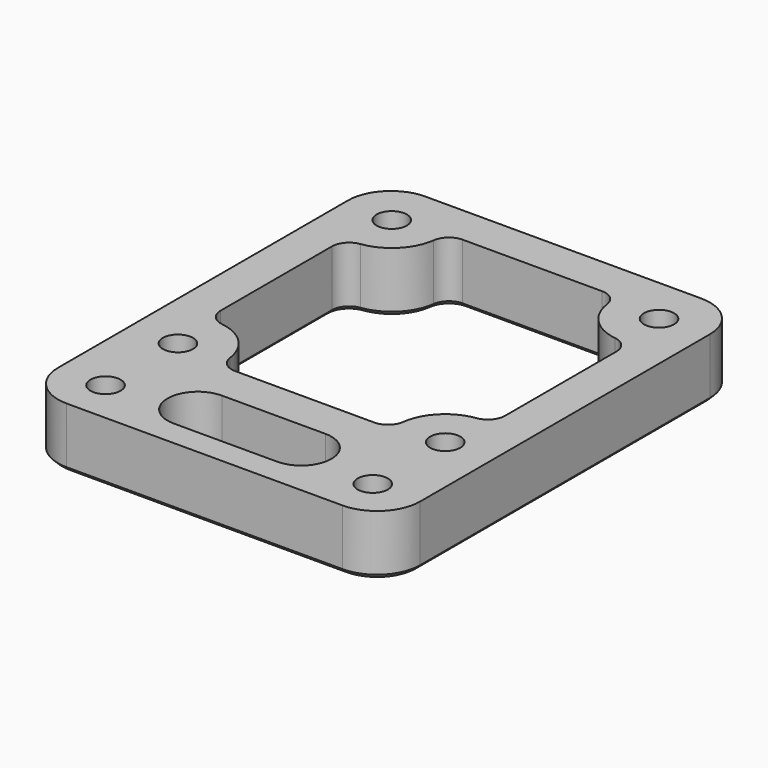
from build123d import *

# Parameters (mm, degrees)
SKETCH_W        = 42
SKETCH_H        = 52
SKETCH_R        = 1.75
PAD_DEPTH       = 7
SKETCH001_R     = 3.25
POCKET_DEPTH    = 3
POCKET001_DEPTH = 7.001
FILLET_R        = 5
FILLET001_R     = 2
CHAMFER_SIZE    = 0.5
CHAMFER001_SIZE = 0.5
CHAMFER002_SIZE = 0.5
CHAMFER003_SIZE = 0.5
SKETCH003_R     = 1.75
PAD001_DEPTH    = 0.3


with BuildPart() as part:
    # Sketch → Pad (new body)
    with BuildSketch(Plane.XY):
        with Locations((0, -5)):
            Rectangle(SKETCH_W, SKETCH_H)
        with Locations((-15.5, 15.5)):
            Circle(SKETCH_R, mode=Mode.SUBTRACT)
        with Locations((15.5, 15.5)):
            Circle(SKETCH_R, mode=Mode.SUBTRACT)
        with Locations((15.5, -15.5)):
            Circle(SKETCH_R, mode=Mode.SUBTRACT)
        with Locations((-15.5, -15.5)):
            Circle(SKETCH_R, mode=Mode.SUBTRACT)
        with Locations((-15.5, -26)):
            Circle(SKETCH_R, mode=Mode.SUBTRACT)
        with Locations((15.5, -26)):
            Circle(SKETCH_R, mode=Mode.SUBTRACT)
    extrude(amount=PAD_DEPTH)

    # Sketch001 → Pocket (cut)
    with BuildSketch(Plane(origin=(0, 0, 0), x_dir=(1, 0, 0), z_dir=(0, 0, -1))):
        with Locations((-15.5, 15.5)):
            Circle(SKETCH001_R)
        with Locations((15.5, 15.5)):
            Circle(SKETCH001_R)
    extrude(amount=-POCKET_DEPTH, mode=Mode.SUBTRACT)

    # Sketch002 → Pocket001 (cut, through all)
    with BuildSketch(Plane.XY.offset(7)):
        with BuildLine():
            ThreePointArc((-6, -21), (-9.5, -24.5), (-6, -28))
            Line((-6, -28), (6, -28))
            ThreePointArc((6, -28), (9.5, -24.5), (6, -21))
            Line((-6, -21), (6, -21))
        make_face()
        with BuildLine():
            ThreePointArc((-16.5, 10.091673), (-11.610913, 11.610913), (-10.091673, 16.5))
            Line((10.091673, 16.5), (-10.091673, 16.5))
            ThreePointArc((10.091673, 16.5), (11.610913, 11.610913), (16.5, 10.091673))
            Line((16.5, -10.091673), (16.5, 10.091673))
            ThreePointArc((16.5, -10.091673), (11.610913, -11.610913), (10.091673, -16.5))
            Line((-10.091673, -16.5), (10.091673, -16.5))
            ThreePointArc((-10.091673, -16.5), (-11.610913, -11.610913), (-16.5, -10.091673))
            Line((-16.5, 10.091673), (-16.5, -10.091673))
        make_face()
    extrude(amount=-POCKET001_DEPTH, mode=Mode.SUBTRACT)

    # Fillet
    fillet_edges = [part.edges().sort_by_distance(p)[0] for p in [
        (-21, -31, 3.5),
        (21, -31, 3.5),
        (21, 21, 3.5),
        (-21, 21, 3.5),
    ]]
    fillet(fillet_edges, radius=FILLET_R)

    # Fillet001
    fillet001_edges = [part.edges().sort_by_distance(p)[0] for p in [
        (-10.091673, -16.5, 3.5),
        (-16.5, -10.091673, 3.5),
        (-16.5, 10.091673, 3.5),
        (-10.091673, 16.5, 3.5),
        (10.091673, 16.5, 3.5),
        (16.5, 10.091673, 3.5),
        (16.5, -10.091673, 3.5),
        (10.091673, -16.5, 3.5),
    ]]
    fillet(fillet001_edges, radius=FILLET001_R)

    # Chamfer
    chamfer_edges = [part.edges().sort_by_distance(p)[0] for p in [
        (21, -5, 0),
    ]]
    chamfer(chamfer_edges, length=CHAMFER_SIZE)

    # Chamfer001
    chamfer001_edges = [part.edges().sort_by_distance(p)[0] for p in [
        (-16.5, 0, 0),
    ]]
    chamfer(chamfer001_edges, length=CHAMFER001_SIZE)

    # Chamfer002
    chamfer002_edges = [part.edges().sort_by_distance(p)[0] for p in [
        (-18.75, -15.5, 0),
        (12.25, -15.5, 0),
        (-17.25, 15.5, 0),
        (13.75, 15.5, 0),
        (13.75, -26, 0),
        (-17.25, -26, 0),
    ]]
    chamfer(chamfer002_edges, length=CHAMFER002_SIZE)

    # Chamfer003
    chamfer003_edges = [part.edges().sort_by_distance(p)[0] for p in [
        (0, -21, 0),
    ]]
    chamfer(chamfer003_edges, length=CHAMFER003_SIZE)

    # Sketch003 → Pad001 (new body)
    with BuildSketch(Plane(origin=(0, 0, 3), x_dir=(1, 0, 0), z_dir=(0, 0, -1))):
        with Locations((-15.5, 15.5)):
            Circle(SKETCH003_R)
        with Locations((15.5, 15.5)):
            Circle(SKETCH003_R)
    extrude(amount=-PAD001_DEPTH)


solid = part.part
